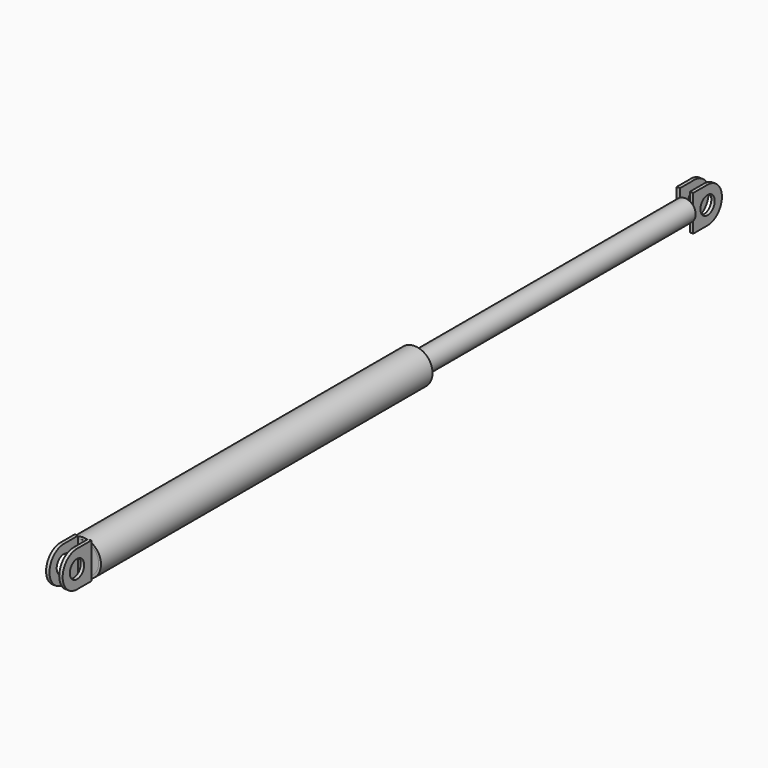
from build123d import *

# Parameters (mm, degrees)
F0_W     = 4253
F0_H     = 24
F0_R     = 92
F3_DEPTH = 85
F4_DEPTH = 50
F5_DEPTH = 85
F6_DEPTH = 50


with BuildPart() as f1:
    # F0 (on Right) → F1 (revolve)
    with BuildSketch(Plane.YZ):
        with Locations((2310.5, 172)):
            Rectangle(F0_W, F0_H)
    revolve(axis=Axis((0, 2310.5, 0), (0, 1, 0)))

    # F0 (on Right) → F3 (join, symmetric)
    with BuildSketch(Plane.YZ):
        with BuildLine():
            ThreePointArc((0, -184), (130.1076477383, -130.1076477383), (184, 0))
            ThreePointArc((184, 0), (130.1076477383, 130.1076477383), (0, 184))
            ThreePointArc((0, 184), (-184, 0), (0, -184))
        make_face()
        Circle(F0_R, mode=Mode.SUBTRACT)
        with BuildLine():
            ThreePointArc((0, 184), (130.1076477383, 130.1076477383), (184, 0))
            Line((184, 0), (184, 160))
            Line((184, 160), (184, 184))
            Line((184, 184), (0, 184))
        make_face()
        with BuildLine():
            Line((184, -184), (184, 0))
            ThreePointArc((184, 0), (130.1076477383, -130.1076477383), (0, -184))
            Line((0, -184), (184, -184))
        make_face()
    extrude(amount=F3_DEPTH, both=True)

    # F0 (on Right) → F4 (cut, symmetric)
    with BuildSketch(Plane.YZ):
        with BuildLine():
            ThreePointArc((0, -184), (130.1076477383, -130.1076477383), (184, 0))
            ThreePointArc((184, 0), (130.1076477383, 130.1076477383), (0, 184))
            ThreePointArc((0, 184), (-184, 0), (0, -184))
        make_face()
        Circle(F0_R, mode=Mode.SUBTRACT)
        with BuildLine():
            ThreePointArc((0, 184), (130.1076477383, 130.1076477383), (184, 0))
            Line((184, 0), (184, 160))
            Line((184, 160), (184, 184))
            Line((184, 184), (0, 184))
        make_face()
        with BuildLine():
            Line((184, -184), (184, 0))
            ThreePointArc((184, 0), (130.1076477383, -130.1076477383), (0, -184))
            Line((0, -184), (184, -184))
        make_face()
    extrude(amount=F4_DEPTH, both=True, mode=Mode.SUBTRACT)


with BuildPart() as f2:
    # F0 (on Right) → F2 (revolve)
    with BuildSketch(Plane.YZ):
        Polygon((4437, 0), (3652, 0), (3652, -110), (7905, -110), (7905, 0), align=None)
    revolve(axis=Axis((0, 6171, 0), (0, 1, 0)))

    # F0 (on Right) → F5 (join, symmetric)
    with BuildSketch(Plane.YZ):
        with BuildLine():
            ThreePointArc((8089, 184), (7958.8923522617, 130.1076477383), (7905, 0))
            ThreePointArc((7905, 0), (7958.8923522617, -130.1076477383), (8089, -184))
            ThreePointArc((8089, -184), (8219.1076477383, -130.1076477383), (8273, 0))
            ThreePointArc((8273, 0), (8219.1076477383, 130.1076477383), (8089, 184))
        make_face()
        with Locations((8089, 0)):
            Circle(F0_R, mode=Mode.SUBTRACT)
        with BuildLine():
            Line((7905, 184), (7905, 0))
            ThreePointArc((7905, 0), (7958.8923522617, 130.1076477383), (8089, 184))
            Line((8089, 184), (7905, 184))
        make_face()
        with BuildLine():
            ThreePointArc((8089, -184), (7958.8923522617, -130.1076477383), (7905, 0))
            Line((7905, 0), (7905, -110))
            Line((7905, -110), (7905, -184))
            Line((7905, -184), (8089, -184))
        make_face()
    extrude(amount=F5_DEPTH, both=True)

    # F0 (on Right) → F6 (cut, symmetric)
    with BuildSketch(Plane.YZ):
        with BuildLine():
            Line((7905, 184), (7905, 0))
            ThreePointArc((7905, 0), (7958.8923522617, 130.1076477383), (8089, 184))
            Line((8089, 184), (7905, 184))
        make_face()
        with BuildLine():
            ThreePointArc((8089, 184), (7958.8923522617, 130.1076477383), (7905, 0))
            ThreePointArc((7905, 0), (7958.8923522617, -130.1076477383), (8089, -184))
            ThreePointArc((8089, -184), (8219.1076477383, -130.1076477383), (8273, 0))
            ThreePointArc((8273, 0), (8219.1076477383, 130.1076477383), (8089, 184))
        make_face()
        with Locations((8089, 0)):
            Circle(F0_R, mode=Mode.SUBTRACT)
        with BuildLine():
            ThreePointArc((8089, -184), (7958.8923522617, -130.1076477383), (7905, 0))
            Line((7905, 0), (7905, -110))
            Line((7905, -110), (7905, -184))
            Line((7905, -184), (8089, -184))
        make_face()
    extrude(amount=F6_DEPTH, both=True, mode=Mode.SUBTRACT)


with BuildPart() as f7:
    # F0 (on Right) → F7 (revolve)
    with BuildSketch(Plane.YZ):
        Polygon((184, 160), (184, 0), (3652, 0), (4437, 0), (4437, 160), align=None)
    revolve(axis=Axis((0, 2310.5, 0), (0, 1, 0)))


solid = Compound([f1.part, f2.part, f7.part])
